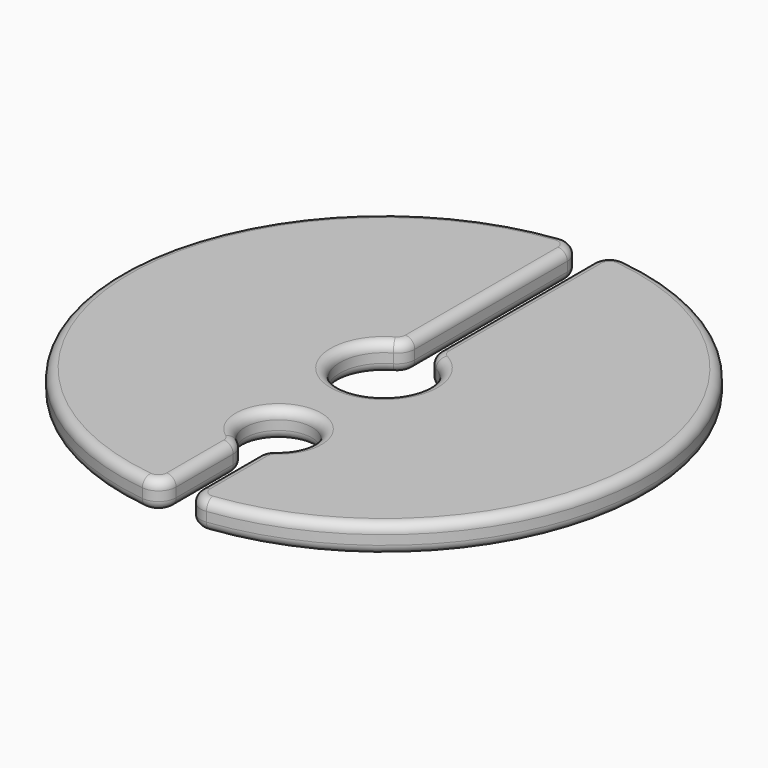
from build123d import *

# Parameters (mm, degrees)
PAD_DEPTH   = 1.6
FILLET_R    = 1
FILLET001_R = 0.533333


with BuildPart() as part:
    # Sketch → Pad (new body)
    with BuildSketch(Plane.XY):
        with BuildLine():
            ThreePointArc((-0.7, 14.983658), (-15, 0), (-0.7, -14.983658))
            Line((-0.7, -9.258181), (-0.7, -14.983658))
            ThreePointArc((0.7, -9.258181), (0, -5.591829), (-0.7, -9.258181))
            Line((0.7, -9.258181), (0.7, -14.983658))
            ThreePointArc((0.7, -14.983658), (15, 0), (0.7, 14.983658))
            Line((0.7, 14.983658), (0.7, 2.4))
            ThreePointArc((-0.7, 2.4), (0, -2.5), (0.7, 2.4))
            Line((-0.7, 14.983658), (-0.7, 2.4))
        make_face()
    extrude(amount=PAD_DEPTH)

    # Fillet
    fillet_edges = [part.edges().sort_by_distance(p)[0] for p in [
        (-0.7, -14.983658, 0.8),
        (0.7, -14.983658, 0.8),
        (0.7, -9.258181, 0.8),
        (-0.7, -9.258181, 0.8),
        (-0.7, 2.4, 0.8),
        (0.7, 2.4, 0.8),
        (-0.7, 14.983658, 0.8),
        (0.7, 14.983658, 0.8),
    ]]
    fillet(fillet_edges, radius=FILLET_R)

    # Fillet001
    fillet001_edges = [part.edges().sort_by_distance(p)[0] for p in [
        (-0.7, 8.477907, 1.6),
        (-1.037214, 14.645211, 1.6),
        (-0.838108, 2.552319, 1.6),
        (-15, 0, 1.6),
        (0, -2.5, 1.6),
        (-1.037214, -14.645211, 1.6),
        (0.838108, 2.552319, 1.6),
        (-0.7, -11.86885, 1.6),
        (0.7, 8.477907, 1.6),
        (-0.809436, -9.386438, 1.6),
        (1.037214, 14.645211, 1.6),
        (0, -5.591829, 1.6),
        (15, 0, 1.6),
        (0.809436, -9.386438, 1.6),
        (1.037214, -14.645211, 1.6),
        (0.7, -11.86885, 1.6),
        (-0.7, 8.477907, 0),
        (-1.037214, 14.645211, 0),
        (-0.838108, 2.552319, 0),
        (-15, 0, 0),
        (0, -2.5, 0),
        (-1.037214, -14.645211, 0),
        (0.838108, 2.552319, 0),
        (-0.7, -11.86885, 0),
        (0.7, 8.477907, 0),
        (-0.809436, -9.386438, 0),
        (1.037214, 14.645211, 0),
        (0, -5.591829, 0),
        (15, 0, 0),
        (0.809436, -9.386438, 0),
        (1.037214, -14.645211, 0),
        (0.7, -11.86885, 0),
    ]]
    fillet(fillet001_edges, radius=FILLET001_R)


solid = part.part
